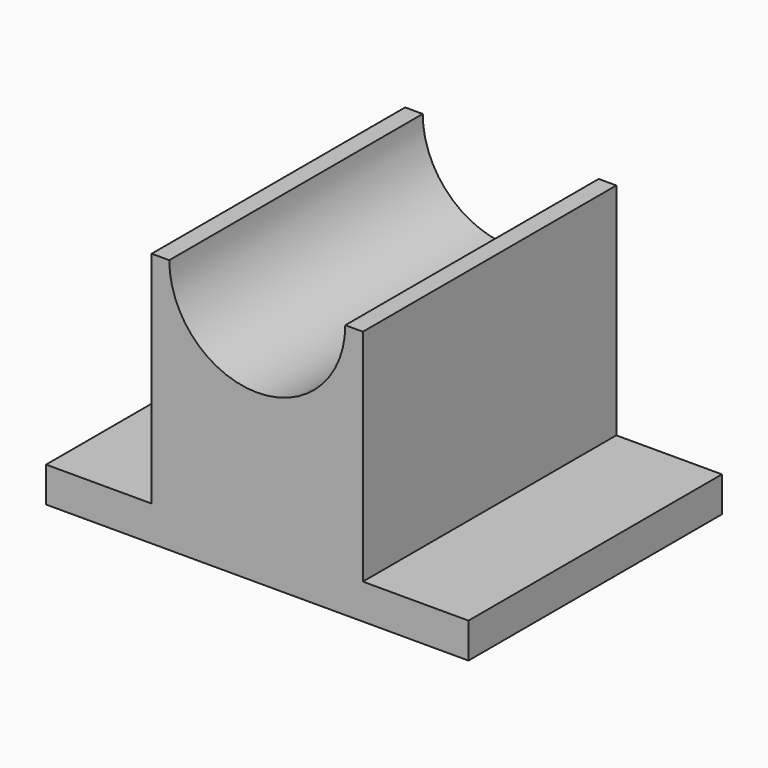
from build123d import *

# Parameters (mm, degrees)
F0_W     = 38.1
F0_H     = 114.3
F0_W_2   = 76.2
F1_DEPTH = 12.7
F2_DEPTH = 92.075
F3_R     = 31.75
F4_DEPTH = 114.3


with BuildPart() as f1:
    # F0 (on Top) → F1 (new body)
    with BuildSketch(Plane.XY):
        with Locations((-57.15, 0)):
            Rectangle(F0_W, F0_H)
        Rectangle(F0_W_2, F0_H)
        with Locations((57.15, 0)):
            Rectangle(F0_W, F0_H)
    extrude(amount=F1_DEPTH)

    # F0 (on Top) → F2 (join)
    with BuildSketch(Plane.XY):
        Rectangle(F0_W_2, F0_H)
    extrude(amount=F2_DEPTH)

    # F3 (on face) → F4 (cut)
    with BuildSketch(Plane.XZ.offset(57.15)):
        with Locations((0, 92.075)):
            Circle(F3_R)
    extrude(amount=-F4_DEPTH, mode=Mode.SUBTRACT)


solid = f1.part
